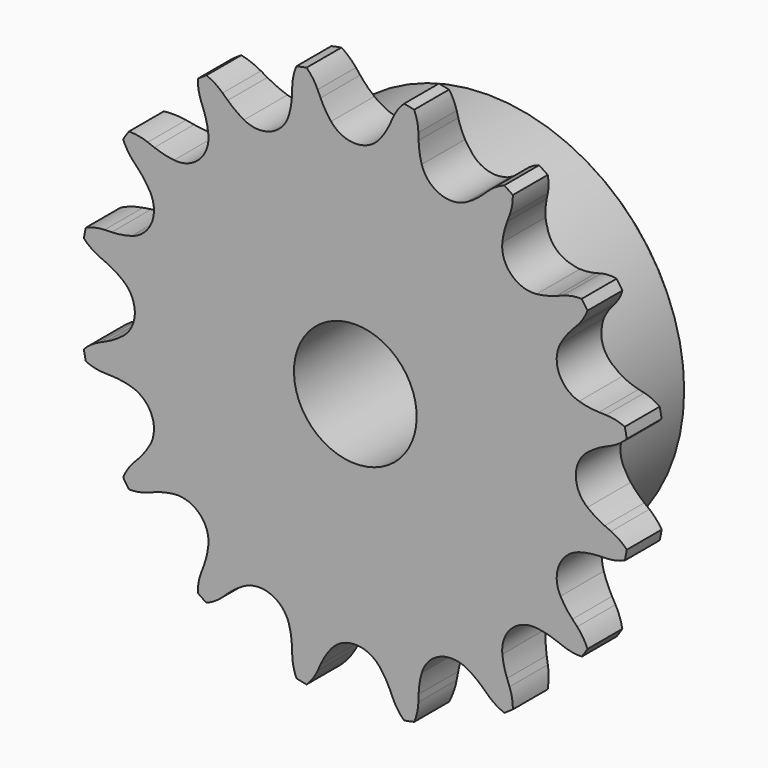
from build123d import *

# Parameters (mm, degrees)
F2_SIZE2 = 1.5748
F2_SIZE  = 6.35
F4_DEPTH = 22.226
F5_R     = 1.5875
F6_SIZE  = 0.79375


with BuildPart() as f1:
    # F0 (on Right) → F1 (revolve)
    with BuildSketch(Plane.YZ):
        Polygon((7.2136, 35.687), (0, 35.687), (0, 7.9375), (22.225, 7.9375), (22.225, 25.4), (7.2136, 25.4), align=None)
    revolve(axis=Axis((0, 11.1125, 0), (0, 1, 0)))

    # F2
    f2_edges = [f1.edges().sort_by_distance(p)[0] for p in [
        (0, 7.2136, -35.687),
    ]]
    f2_side = f1.faces().sort_by_distance((0, 7.2136, -26.409381))[0]
    chamfer(f2_edges, length=F2_SIZE, length2=F2_SIZE2, reference=f2_side)

    # F3 (on face) → F4 (intersect, through all)
    with BuildSketch(Plane.XZ):
        with BuildLine():
            ThreePointArc((-3.135378946, 30.0324223537), (-3.8892356196, 31.1040576592), (-4.5018259003, 32.2622611215))
            Line((-4.5018259003, 32.2622611215), (-4.8750905634, 33.0908779473))
            ThreePointArc((-4.8750905634, 33.0908779473), (-5.8139766931, 34.5945142721), (-7.119753928, 35.7934200962))
            ThreePointArc((-7.119753928, 35.7934200962), (-7.8673333934, 34.1860762298), (-8.1593343622, 32.4376012383))
            Line((-8.1593343622, 32.4376012383), (-8.1870880136, 31.5292169101))
            ThreePointArc((-8.1870880136, 31.5292169101), (-8.3098223594, 30.2247482855), (-8.5961980337, 28.9461979011))
            ThreePointArc((-8.5961980337, 28.9461979011), (-10.9173911885, 26.3569138731), (-14.3896229034, 26.5464827475))
            ThreePointArc((-14.3896229034, 26.5464827475), (-15.4961927315, 27.2480562132), (-16.5053776301, 28.0836685352))
            Line((-16.5053776301, 28.0836685352), (-17.1673271435, 28.7063684585))
            ThreePointArc((-17.1673271435, 28.7063684585), (-18.610161532, 29.7362511166), (-20.2753437891, 30.3441963547))
            ThreePointArc((-20.2753437891, 30.3441963547), (-20.3509132883, 28.5731179791), (-19.9515745957, 26.8459937882))
            Line((-19.9515745957, 26.8459937882), (-19.6295919936, 25.9961352373))
            ThreePointArc((-19.6295919936, 25.9961352373), (-19.243785213, 24.7439949735), (-19.0190817875, 23.4531772161))
            ThreePointArc((-19.0190817875, 23.4531772161), (-20.172708535, 20.172708535), (-23.4531772161, 19.0190817875))
            ThreePointArc((-23.4531772161, 19.0190817875), (-24.7439949735, 19.243785213), (-25.9961352373, 19.6295919936))
            Line((-25.9961352373, 19.6295919936), (-26.8459937882, 19.9515745957))
            ThreePointArc((-26.8459937882, 19.9515745957), (-28.5731179791, 20.3509132883), (-30.3441963547, 20.2753437891))
            ThreePointArc((-30.3441963547, 20.2753437891), (-29.7362511166, 18.610161532), (-28.7063684585, 17.1673271435))
            Line((-28.7063684585, 17.1673271435), (-28.0836685352, 16.5053776301))
            ThreePointArc((-28.0836685352, 16.5053776301), (-27.2480562132, 15.4961927315), (-26.5464827475, 14.3896229034))
            ThreePointArc((-26.5464827475, 14.3896229034), (-26.3569138731, 10.9173911885), (-28.9461979011, 8.5961980337))
            ThreePointArc((-28.9461979011, 8.5961980337), (-30.2247482855, 8.3098223594), (-31.5292169101, 8.1870880136))
            Line((-31.5292169101, 8.1870880136), (-32.4376012383, 8.1593343622))
            ThreePointArc((-32.4376012383, 8.1593343622), (-34.1860762298, 7.8673333934), (-35.7934200962, 7.119753928))
            ThreePointArc((-35.7934200962, 7.119753928), (-34.5945142721, 5.8139766931), (-33.0908779473, 4.8750905634))
            Line((-33.0908779473, 4.8750905634), (-32.2622611215, 4.5018259003))
            ThreePointArc((-32.2622611215, 4.5018259003), (-31.1040576592, 3.8892356196), (-30.0324223537, 3.135378946))
            ThreePointArc((-30.0324223537, 3.135378946), (-28.528518, 0), (-30.0324223537, -3.135378946))
            ThreePointArc((-30.0324223537, -3.135378946), (-31.1040576592, -3.8892356196), (-32.2622611215, -4.5018259003))
            Line((-32.2622611215, -4.5018259003), (-33.0908779473, -4.8750905634))
            ThreePointArc((-33.0908779473, -4.8750905634), (-34.5945142721, -5.8139766931), (-35.7934200962, -7.119753928))
            ThreePointArc((-35.7934200962, -7.119753928), (-34.1860762298, -7.8673333934), (-32.4376012383, -8.1593343622))
            Line((-32.4376012383, -8.1593343622), (-31.5292169101, -8.1870880136))
            ThreePointArc((-31.5292169101, -8.1870880136), (-30.2247482855, -8.3098223594), (-28.9461979011, -8.5961980337))
            ThreePointArc((-28.9461979011, -8.5961980337), (-26.3569138731, -10.9173911885), (-26.5464827475, -14.3896229034))
            ThreePointArc((-26.5464827475, -14.3896229034), (-27.2480562132, -15.4961927315), (-28.0836685352, -16.5053776301))
            Line((-28.0836685352, -16.5053776301), (-28.7063684585, -17.1673271435))
            ThreePointArc((-28.7063684585, -17.1673271435), (-29.7362511166, -18.610161532), (-30.3441963547, -20.2753437891))
            ThreePointArc((-30.3441963547, -20.2753437891), (-28.5731179791, -20.3509132883), (-26.8459937882, -19.9515745957))
            Line((-26.8459937882, -19.9515745957), (-25.9961352373, -19.6295919936))
            ThreePointArc((-25.9961352373, -19.6295919936), (-24.7439949735, -19.243785213), (-23.4531772161, -19.0190817875))
            ThreePointArc((-23.4531772161, -19.0190817875), (-20.172708535, -20.172708535), (-19.0190817875, -23.4531772161))
            ThreePointArc((-19.0190817875, -23.4531772161), (-19.243785213, -24.7439949735), (-19.6295919936, -25.9961352373))
            Line((-19.6295919936, -25.9961352373), (-19.9515745957, -26.8459937882))
            ThreePointArc((-19.9515745957, -26.8459937882), (-20.3509132883, -28.5731179791), (-20.2753437891, -30.3441963547))
            ThreePointArc((-20.2753437891, -30.3441963547), (-18.610161532, -29.7362511166), (-17.1673271435, -28.7063684585))
            Line((-17.1673271435, -28.7063684585), (-16.5053776301, -28.0836685352))
            ThreePointArc((-16.5053776301, -28.0836685352), (-15.4961927315, -27.2480562132), (-14.3896229034, -26.5464827475))
            ThreePointArc((-14.3896229034, -26.5464827475), (-10.9173911885, -26.3569138731), (-8.5961980337, -28.9461979011))
            ThreePointArc((-8.5961980337, -28.9461979011), (-8.3098223594, -30.2247482855), (-8.1870880136, -31.5292169101))
            Line((-8.1870880136, -31.5292169101), (-8.1593343622, -32.4376012383))
            ThreePointArc((-8.1593343622, -32.4376012383), (-7.8673333934, -34.1860762298), (-7.119753928, -35.7934200962))
            ThreePointArc((-7.119753928, -35.7934200962), (-5.8139766931, -34.5945142721), (-4.8750905634, -33.0908779473))
            Line((-4.8750905634, -33.0908779473), (-4.5018259003, -32.2622611215))
            ThreePointArc((-4.5018259003, -32.2622611215), (-3.8892356196, -31.1040576592), (-3.135378946, -30.0324223537))
            ThreePointArc((-3.135378946, -30.0324223537), (0, -28.528518), (3.135378946, -30.0324223537))
            ThreePointArc((3.135378946, -30.0324223537), (3.8892356196, -31.1040576592), (4.5018259003, -32.2622611215))
            Line((4.5018259003, -32.2622611215), (4.8750905634, -33.0908779473))
            ThreePointArc((4.8750905634, -33.0908779473), (5.8139766931, -34.5945142721), (7.119753928, -35.7934200962))
            ThreePointArc((7.119753928, -35.7934200962), (7.8673333934, -34.1860762298), (8.1593343622, -32.4376012383))
            Line((8.1593343622, -32.4376012383), (8.1870880136, -31.5292169101))
            ThreePointArc((8.1870880136, -31.5292169101), (8.3098223594, -30.2247482855), (8.5961980337, -28.9461979011))
            ThreePointArc((8.5961980337, -28.9461979011), (10.9173911885, -26.3569138731), (14.3896229034, -26.5464827475))
            ThreePointArc((14.3896229034, -26.5464827475), (15.4961927315, -27.2480562132), (16.5053776301, -28.0836685352))
            Line((16.5053776301, -28.0836685352), (17.1673271435, -28.7063684585))
            ThreePointArc((17.1673271435, -28.7063684585), (18.610161532, -29.7362511166), (20.2753437891, -30.3441963547))
            ThreePointArc((20.2753437891, -30.3441963547), (20.3509132883, -28.5731179791), (19.9515745957, -26.8459937882))
            Line((19.9515745957, -26.8459937882), (19.6295919936, -25.9961352373))
            ThreePointArc((19.6295919936, -25.9961352373), (19.243785213, -24.7439949735), (19.0190817875, -23.4531772161))
            ThreePointArc((19.0190817875, -23.4531772161), (20.172708535, -20.172708535), (23.4531772161, -19.0190817875))
            ThreePointArc((23.4531772161, -19.0190817875), (24.7439949735, -19.243785213), (25.9961352373, -19.6295919936))
            Line((25.9961352373, -19.6295919936), (26.8459937882, -19.9515745957))
            ThreePointArc((26.8459937882, -19.9515745957), (28.5731179791, -20.3509132883), (30.3441963547, -20.2753437891))
            ThreePointArc((30.3441963547, -20.2753437891), (29.7362511166, -18.610161532), (28.7063684585, -17.1673271435))
            Line((28.7063684585, -17.1673271435), (28.0836685352, -16.5053776301))
            ThreePointArc((28.0836685352, -16.5053776301), (27.2480562132, -15.4961927315), (26.5464827475, -14.3896229034))
            ThreePointArc((26.5464827475, -14.3896229034), (26.3569138731, -10.9173911885), (28.9461979011, -8.5961980337))
            ThreePointArc((28.9461979011, -8.5961980337), (30.2247482855, -8.3098223594), (31.5292169101, -8.1870880136))
            Line((31.5292169101, -8.1870880136), (32.4376012383, -8.1593343622))
            ThreePointArc((32.4376012383, -8.1593343622), (34.1860762298, -7.8673333934), (35.7934200962, -7.119753928))
            ThreePointArc((35.7934200962, -7.119753928), (34.5945142721, -5.8139766931), (33.0908779473, -4.8750905634))
            Line((33.0908779473, -4.8750905634), (32.2622611215, -4.5018259003))
            ThreePointArc((32.2622611215, -4.5018259003), (31.1040576592, -3.8892356196), (30.0324223537, -3.135378946))
            ThreePointArc((30.0324223537, -3.135378946), (28.528518, 0), (30.0324223537, 3.135378946))
            ThreePointArc((30.0324223537, 3.135378946), (31.1040576592, 3.8892356196), (32.2622611215, 4.5018259003))
            Line((32.2622611215, 4.5018259003), (33.0908779473, 4.8750905634))
            ThreePointArc((33.0908779473, 4.8750905634), (34.5945142721, 5.8139766931), (35.7934200962, 7.119753928))
            ThreePointArc((35.7934200962, 7.119753928), (34.1860762298, 7.8673333934), (32.4376012383, 8.1593343622))
            Line((32.4376012383, 8.1593343622), (31.5292169101, 8.1870880136))
            ThreePointArc((31.5292169101, 8.1870880136), (30.2247482855, 8.3098223594), (28.9461979011, 8.5961980337))
            ThreePointArc((28.9461979011, 8.5961980337), (26.3569138731, 10.9173911885), (26.5464827475, 14.3896229034))
            ThreePointArc((26.5464827475, 14.3896229034), (27.2480562132, 15.4961927315), (28.0836685352, 16.5053776301))
            Line((28.0836685352, 16.5053776301), (28.7063684585, 17.1673271435))
            ThreePointArc((28.7063684585, 17.1673271435), (29.7362511166, 18.610161532), (30.3441963547, 20.2753437891))
            ThreePointArc((30.3441963547, 20.2753437891), (28.5731179791, 20.3509132883), (26.8459937882, 19.9515745957))
            Line((26.8459937882, 19.9515745957), (25.9961352373, 19.6295919936))
            ThreePointArc((25.9961352373, 19.6295919936), (24.7439949735, 19.243785213), (23.4531772161, 19.0190817875))
            ThreePointArc((23.4531772161, 19.0190817875), (20.172708535, 20.172708535), (19.0190817875, 23.4531772161))
            ThreePointArc((19.0190817875, 23.4531772161), (19.243785213, 24.7439949735), (19.6295919936, 25.9961352373))
            Line((19.6295919936, 25.9961352373), (19.9515745957, 26.8459937882))
            ThreePointArc((19.9515745957, 26.8459937882), (20.3509132883, 28.5731179791), (20.2753437891, 30.3441963547))
            ThreePointArc((20.2753437891, 30.3441963547), (18.610161532, 29.7362511166), (17.1673271435, 28.7063684585))
            Line((17.1673271435, 28.7063684585), (16.5053776301, 28.0836685352))
            ThreePointArc((16.5053776301, 28.0836685352), (15.4961927315, 27.2480562132), (14.3896229034, 26.5464827475))
            ThreePointArc((14.3896229034, 26.5464827475), (10.9173911885, 26.3569138731), (8.5961980337, 28.9461979011))
            ThreePointArc((8.5961980337, 28.9461979011), (8.3098223594, 30.2247482855), (8.1870880136, 31.5292169101))
            Line((8.1870880136, 31.5292169101), (8.1593343622, 32.4376012383))
            ThreePointArc((8.1593343622, 32.4376012383), (7.8673333934, 34.1860762298), (7.119753928, 35.7934200962))
            ThreePointArc((7.119753928, 35.7934200962), (5.8139766931, 34.5945142721), (4.8750905634, 33.0908779473))
            Line((4.8750905634, 33.0908779473), (4.5018259003, 32.2622611215))
            ThreePointArc((4.5018259003, 32.2622611215), (3.8892356196, 31.1040576592), (3.135378946, 30.0324223537))
            ThreePointArc((3.135378946, 30.0324223537), (0, 28.528518), (-3.135378946, 30.0324223537))
        make_face()
    extrude(amount=-F4_DEPTH, mode=Mode.INTERSECT)

    # F5
    f5_edges = [f1.edges().sort_by_distance(p)[0] for p in [
        (0, 7.2136, -25.4),
    ]]
    fillet(f5_edges, radius=F5_R)

    # F6
    f6_edges = [f1.edges().sort_by_distance(p)[0] for p in [
        (0, 22.225, -25.4),
    ]]
    chamfer(f6_edges, length=F6_SIZE)


solid = f1.part
